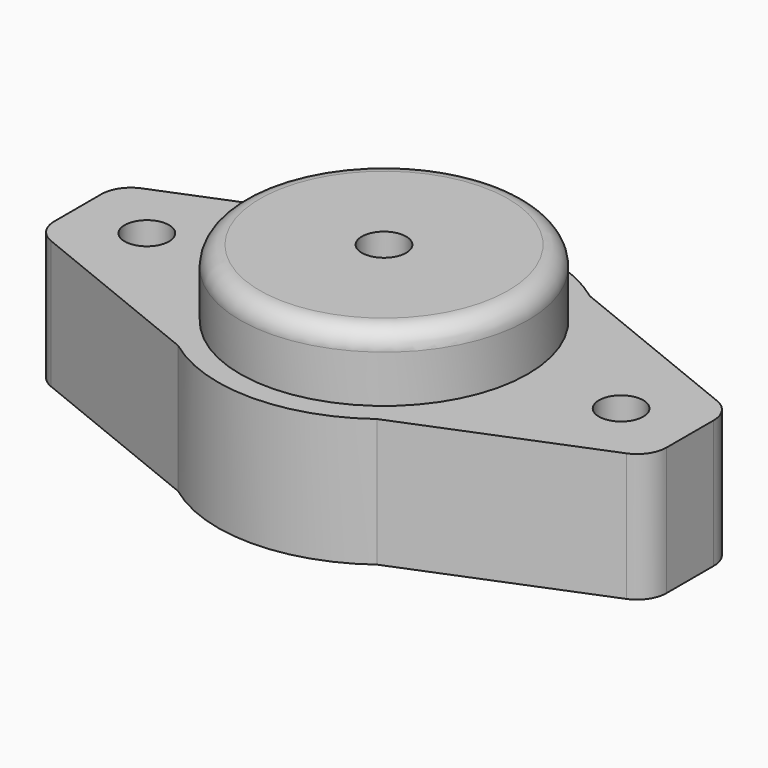
from build123d import *

# Parameters (mm, degrees)
F0_R     = 14.85
F0_R_2   = 2.25
F1_DEPTH = 13
F2_R     = 15.05
F3_DEPTH = 6
F4_R     = 14.6
F4_R_2   = 2.25
F5_DEPTH = 6.8
F6_R     = 2


with BuildPart() as f1:
    # F0 (on Top) → F1 (new body)
    with BuildSketch(Plane.XY):
        with BuildLine():
            ThreePointArc((10.083278, -13.5), (15.063627, -7.550472), (16.85, 0))
            ThreePointArc((16.85, 0), (15.063627, 7.550472), (10.083278, 13.5))
            ThreePointArc((10.083278, 13.5), (0, 16.85), (-10.083278, 13.5))
            ThreePointArc((-10.083278, 13.5), (-16.85, 0), (-10.083278, -13.5))
            ThreePointArc((-10.083278, -13.5), (0, -16.85), (10.083278, -13.5))
        make_face()
        Circle(F0_R, mode=Mode.SUBTRACT)
        with BuildLine():
            ThreePointArc((10.083278, 13.5), (15.063627, 7.550472), (16.85, 0))
            ThreePointArc((16.85, 0), (15.063627, -7.550472), (10.083278, -13.5))
            Line((10.083278, -13.5), (29.177113, -5.759277))
            ThreePointArc((29.177113, -5.759277), (30.538106, -4.655164), (31.05, -2.979058))
            Line((31.05, -2.979058), (31.05, 0))
            Line((31.05, 0), (31.05, 2.979058))
            ThreePointArc((31.05, 2.979058), (30.538106, 4.655164), (29.177113, 5.759277))
            Line((29.177113, 5.759277), (10.083278, 13.5))
        make_face()
        with Locations((24.05, 0)):
            Circle(F0_R_2, mode=Mode.SUBTRACT)
        with BuildLine():
            ThreePointArc((-10.083278, -13.5), (-16.85, 0), (-10.083278, 13.5))
            Line((-10.083278, 13.5), (-29.177113, 5.759277))
            ThreePointArc((-29.177113, 5.759277), (-30.538106, 4.655164), (-31.05, 2.979058))
            Line((-31.05, 2.979058), (-31.05, 0))
            Line((-31.05, 0), (-31.05, -2.979058))
            ThreePointArc((-31.05, -2.979058), (-30.538106, -4.655164), (-29.177113, -5.759277))
            Line((-29.177113, -5.759277), (-10.083278, -13.5))
        make_face()
        with Locations((-24.05, 0)):
            Circle(F0_R_2, mode=Mode.SUBTRACT)
    extrude(amount=F1_DEPTH)

    # F2 (on face) → F3 (join)
    with BuildSketch(Plane.XY.offset(13)):
        Circle(F2_R)
    extrude(amount=-F3_DEPTH)

    # F4 (on face) → F5 (join)
    with BuildSketch(Plane.XY.offset(13)):
        Circle(F4_R)
        Circle(F4_R_2, mode=Mode.SUBTRACT)
    extrude(amount=F5_DEPTH)

    # F6
    f6_edges = [f1.edges().sort_by_distance(p)[0] for p in [
        (-14.6, 0, 19.8),
    ]]
    fillet(f6_edges, radius=F6_R)


solid = f1.part
